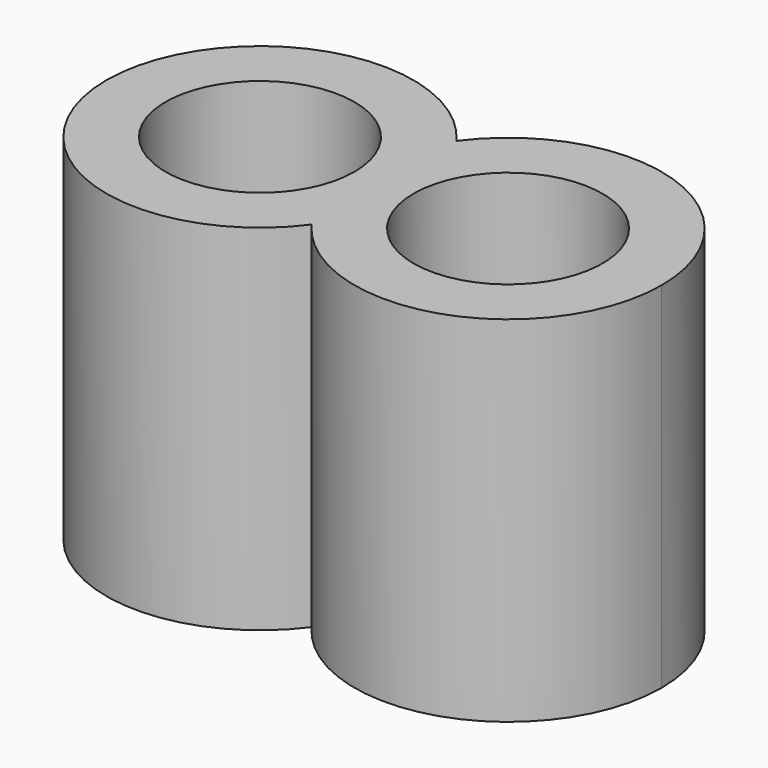
from build123d import *

# Parameters (mm, degrees)
F0_R     = 5.08
F1_DEPTH = 19.05
F2_R     = 5.08
F3_DEPTH = 3.175


with BuildPart() as f1:
    # F0 (on Top) → F1 (new body)
    with BuildSketch(Plane.XY):
        with BuildLine():
            ThreePointArc((6.6675, -4.8671828351), (5.4869034951, -2.5597668351), (5.08, 0))
            ThreePointArc((5.08, 0), (5.4869034951, 2.5597668351), (6.6675, 4.8671828351))
            ThreePointArc((6.6675, 4.8671828351), (-8.255, 0), (6.6675, -4.8671828351))
        make_face()
        Circle(F0_R, mode=Mode.SUBTRACT)
        with BuildLine():
            Line((8.255, 0), (5.08, 0))
            ThreePointArc((5.08, 0), (5.4869034951, -2.5597668351), (6.6675, -4.8671828351))
            ThreePointArc((6.6675, -4.8671828351), (7.8480965049, -2.5597668351), (8.255, 0))
        make_face()
        with BuildLine():
            ThreePointArc((6.6675, 4.8671828351), (5.4869034951, 2.5597668351), (5.08, 0))
            Line((5.08, 0), (8.255, 0))
            ThreePointArc((8.255, 0), (7.8480965049, 2.5597668351), (6.6675, 4.8671828351))
        make_face()
        with BuildLine():
            ThreePointArc((6.6675, 4.8671828351), (7.8480965049, 2.5597668351), (8.255, 0))
            ThreePointArc((8.255, 0), (7.8480965049, -2.5597668351), (6.6675, -4.8671828351))
            ThreePointArc((6.6675, -4.8671828351), (15.8947668351, -7.8480965049), (21.59, 0))
            ThreePointArc((21.59, 0), (15.8947668351, 7.8480965049), (6.6675, 4.8671828351))
        make_face()
        with BuildLine():
            ThreePointArc((18.415, 0), (13.335, -5.08), (8.255, 0))
            ThreePointArc((8.255, 0), (13.335, 5.08), (18.415, 0))
        make_face(mode=Mode.SUBTRACT)
    extrude(amount=F1_DEPTH)

    # F2 (on Top) → F3 (join)
    with BuildSketch(Plane.XY):
        Circle(F2_R)
    extrude(amount=F3_DEPTH)


solid = f1.part
